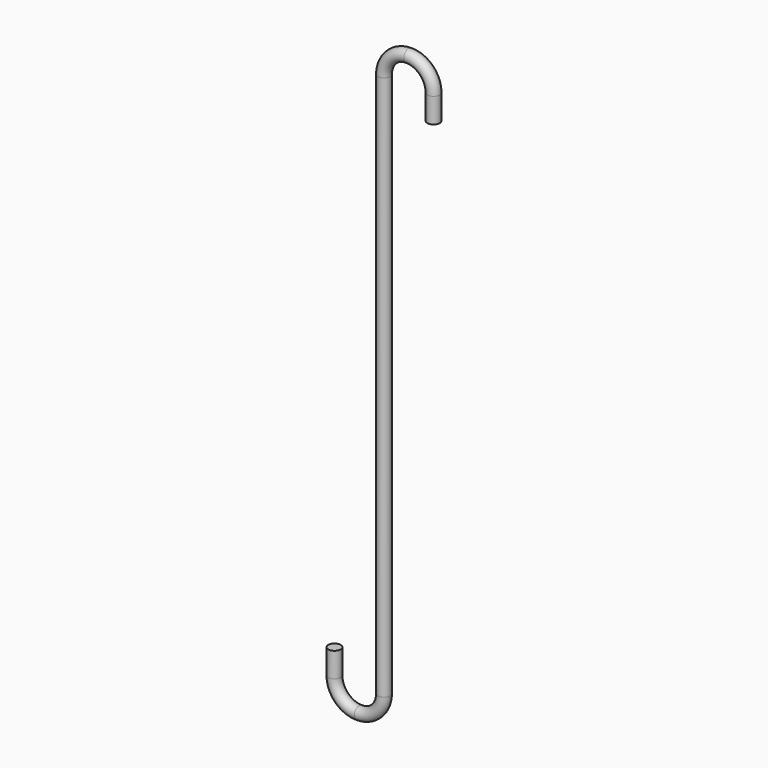
from build123d import *

# Parameters (mm, degrees)
F2_R = 3.175


with BuildPart() as f3:
    # F3: sweep along a path in F0
    with BuildLine(Plane.XZ) as f3_path:
        Line((-50.8, -126.1922290944), (-50.8, -138.8922290944))
        ThreePointArc((-50.8, -138.8922290944), (-47.0802561211, -147.8724852155), (-38.1, -151.5922290944))
        ThreePointArc((-38.1, -151.5922290944), (-29.1197438789, -147.8724852155), (-25.4, -138.8922290944))
        Line((-25.4, -138.8922290944), (-25.4, 140.5077709056))
        ThreePointArc((-25.4, 140.5077709056), (-21.6802561211, 149.4880270267), (-12.7, 153.2077709056))
        ThreePointArc((-12.7, 153.2077709056), (-3.7197438789, 149.4880270267), (0, 140.5077709056))
        Line((0, 140.5077709056), (0, 127.8077709056))
    # F2 (on plane+point) → F3 (sweep)
    with BuildSketch(Plane.XY.offset(-126.1922290944)):
        with Locations((-50.8, 0)):
            Circle(F2_R)
    sweep(path=f3_path.line)


solid = f3.part
